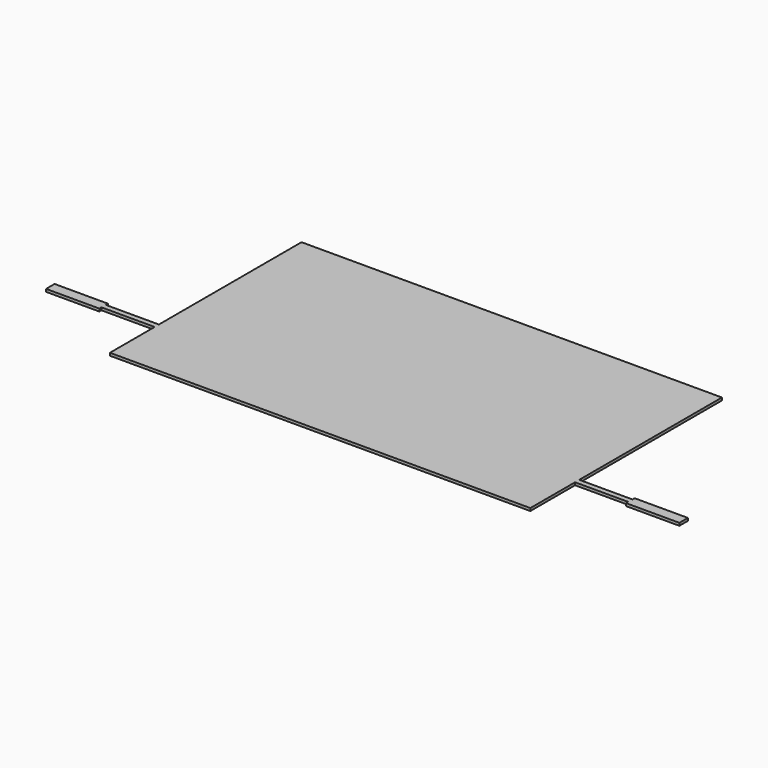
from build123d import *

# Parameters (mm, degrees)
F1_DEPTH = 5


with BuildPart() as f1:
    # F0 (on Top) → F1 (new body)
    with BuildSketch(Plane.XY):
        Polygon((304.756469, 261.70242), (-485.243531, 261.70242), (-485.243531, -73.29758), (-585.243531, -73.29758), (-585.243531, -68.29758), (-685.243531, -68.29758), (-685.243531, -88.29758), (-585.243531, -88.29758), (-585.243531, -83.29758), (-485.243531, -83.29758), (-485.243531, -188.29758), (304.756469, -188.29758), (304.756469, -83.29758), (404.756469, -83.29758), (404.756469, -88.29758), (504.756469, -88.29758), (504.756469, -68.29758), (404.756469, -68.29758), (404.756469, -73.29758), (304.756469, -73.29758), align=None)
    extrude(amount=F1_DEPTH)


solid = f1.part
